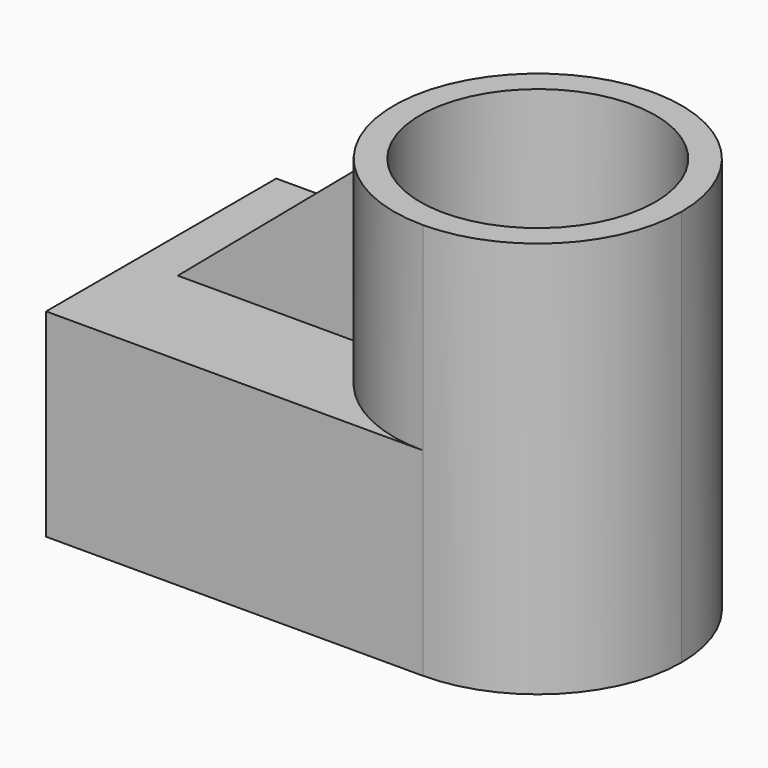
from build123d import *

# Parameters (mm, degrees)
F1_DEPTH = 25.4
F0_R     = 15.0505482929
F2_DEPTH = 50.8
F4_DEPTH = 20.828
F6_DEPTH = 25.4


with BuildPart() as f1:
    # F0 (on Top) → F1 (new body)
    with BuildSketch(Plane.XY):
        with BuildLine():
            Line((-30.0037506968, -18.4360407293), (18.2052805233, -18.4092394559))
            ThreePointArc((18.2052805233, -18.4092394559), (-0.2123373289, -0.2616045695), (17.6821201623, 18.4020952356))
            Line((17.6821201623, 18.4020952356), (-30.0037506968, 18.4020952356))
            Line((-30.0037506968, 18.4020952356), (-30.0037506968, -18.4360407293))
        make_face()
    extrude(amount=F1_DEPTH)

    # F0 (on Top) → F2 (join)
    with BuildSketch(Plane.XY):
        with BuildLine():
            ThreePointArc((18.2052805233, -18.4092394559), (31.2159640874, -13.0136811535), (36.6042884127, 0))
            ThreePointArc((36.6042884127, 0), (31.3924469958, 12.8346722592), (18.7079720616, 18.4020952356))
            Line((18.7079720616, 18.4020952356), (17.6821201623, 18.4020952356))
            ThreePointArc((17.6821201623, 18.4020952356), (-0.2123373289, -0.2616045695), (18.2052805233, -18.4092394559))
        make_face()
        with Locations((18.1950461119, 0)):
            Circle(F0_R, mode=Mode.SUBTRACT)
    extrude(amount=F2_DEPTH)

    # F3 (on face) → F4 (join)
    with BuildSketch(Plane.XY.offset(25.4)):
        with BuildLine():
            ThreePointArc((0, -2.8000891188), (-0.2141961888, 0), (0, 2.8000891188))
            Line((0, 2.8000891188), (-24.5482716709, 2.8000891188))
            Line((-24.5482716709, 2.8000891188), (-24.5482716709, -4.1717705317))
            Line((-24.5482716709, -4.1717705317), (0, -4.1717705317))
            Line((0, -4.1717705317), (0, -2.8000891188))
        make_face()
    extrude(amount=F4_DEPTH)

    # F5 (on face) → F6 (cut)
    with BuildSketch(Plane.XZ.offset(4.1717705317)):
        Polygon((-24.5482716709, 25.4), (0, 46.228), (-24.5482716709, 46.228), align=None)
    extrude(amount=-F6_DEPTH, mode=Mode.SUBTRACT)


solid = f1.part
